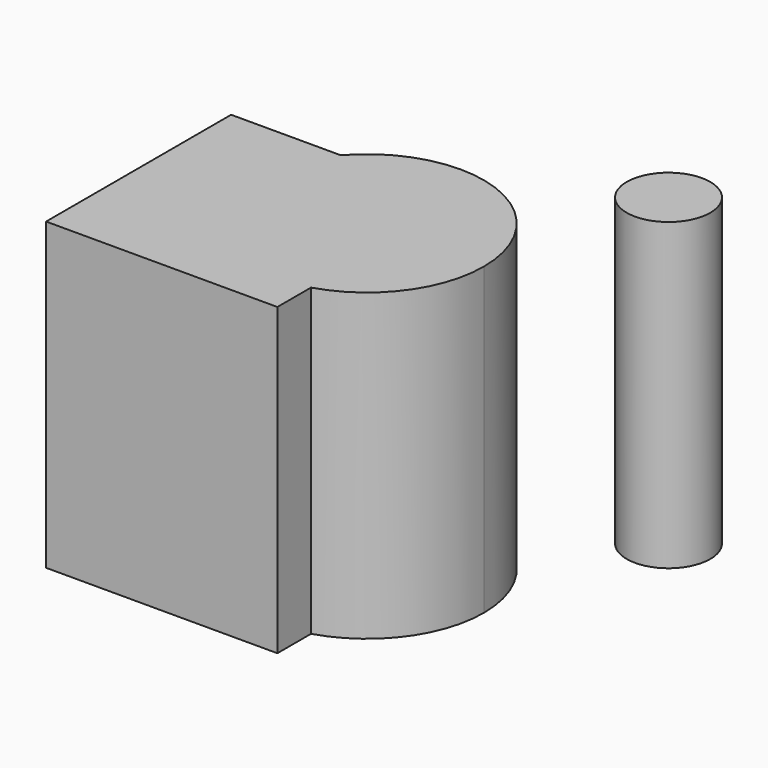
from build123d import *

# Parameters (mm, degrees)
F1_DEPTH = 50
F2_DEPTH = 65.9
F0_R     = 9.0330055622


with BuildPart() as f1:
    # F0 (on Top) → F1 (new body)
    with BuildSketch(Plane.XY):
        with BuildLine():
            Line((-1.3134458476, 25), (-25, 25))
            Line((-25, 25), (-25, -25))
            Line((-25, -25), (25, -25))
            Line((25, -25), (25, -15.9130819361))
            ThreePointArc((25, -15.9130819361), (-3.5820048642, -5.3773853976), (-1.3134458476, 25))
        make_face()
        with BuildLine():
            Line((25, 25), (-1.3134458476, 25))
            ThreePointArc((-1.3134458476, 25), (-3.5820048642, -5.3773853976), (25, -15.9130819361))
            Line((25, -15.9130819361), (25, 25))
        make_face()
    extrude(amount=F1_DEPTH)

    # F0 (on Top) → F2 (join)
    with BuildSketch(Plane.XY):
        with BuildLine():
            Line((-1.3134458476, 25), (-25, 25))
            Line((-25, 25), (-25, -25))
            Line((-25, -25), (25, -25))
            Line((25, -25), (25, -15.9130819361))
            ThreePointArc((25, -15.9130819361), (-3.5820048642, -5.3773853976), (-1.3134458476, 25))
        make_face()
        with BuildLine():
            ThreePointArc((42.9928339685, 8.3070602268), (26.6142674439, 31.9803609547), (-1.3134458476, 25))
            Line((-1.3134458476, 25), (25, 25))
            Line((25, 25), (25, -15.9130819361))
            ThreePointArc((25, -15.9130819361), (38.0023997126, -6.7790042087), (42.9928339685, 8.3070602268))
        make_face()
        with BuildLine():
            Line((25, 25), (-1.3134458476, 25))
            ThreePointArc((-1.3134458476, 25), (-3.5820048642, -5.3773853976), (25, -15.9130819361))
            Line((25, -15.9130819361), (25, 25))
        make_face()
    extrude(amount=F2_DEPTH)


with BuildPart() as f2:
    # F0 (on Top) → F2, piece 2 (new body)
    with BuildSketch(Plane.XY):
        with Locations((51.5161268413, 47.5466363132)):
            Circle(F0_R)
    extrude(amount=F2_DEPTH)


solid = Compound([f1.part, f2.part])
